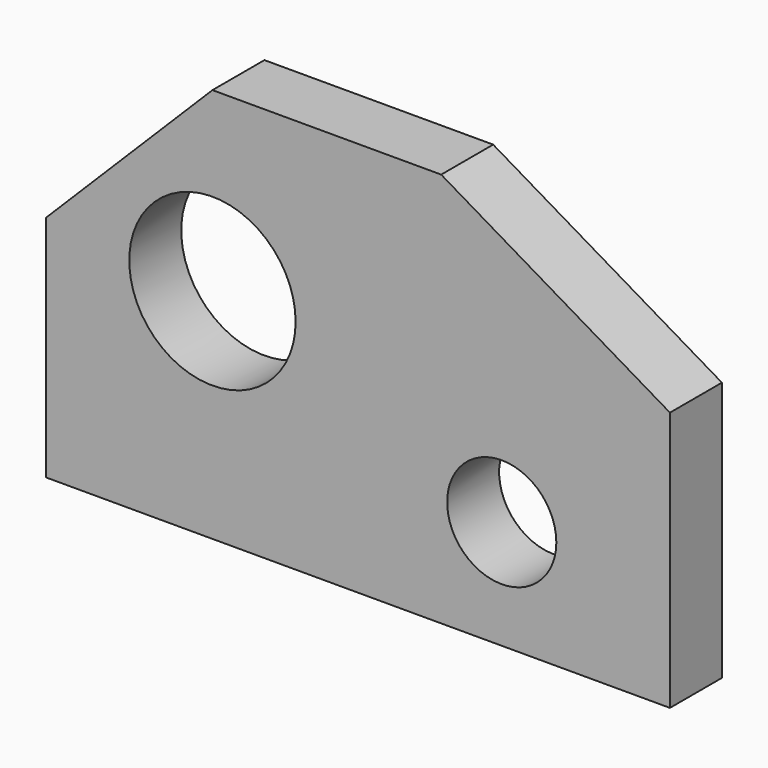
from build123d import *

# Parameters (mm, degrees)
F0_R     = 21
F0_R_2   = 32
F1_DEPTH = 25


with BuildPart() as f1:
    # F0 (on Front) → F1 (new body)
    with BuildSketch(Plane.XZ):
        Polygon((-64, 4.07832), (-64, -83.92168), (176, -83.92168), (176, 16.07832), (88, 68.07832), (0, 68.07832), align=None)
        with Locations((111.296199, -42.076349)):
            Circle(F0_R, mode=Mode.SUBTRACT)
        Circle(F0_R_2, mode=Mode.SUBTRACT)
    extrude(amount=F1_DEPTH)


solid = f1.part
